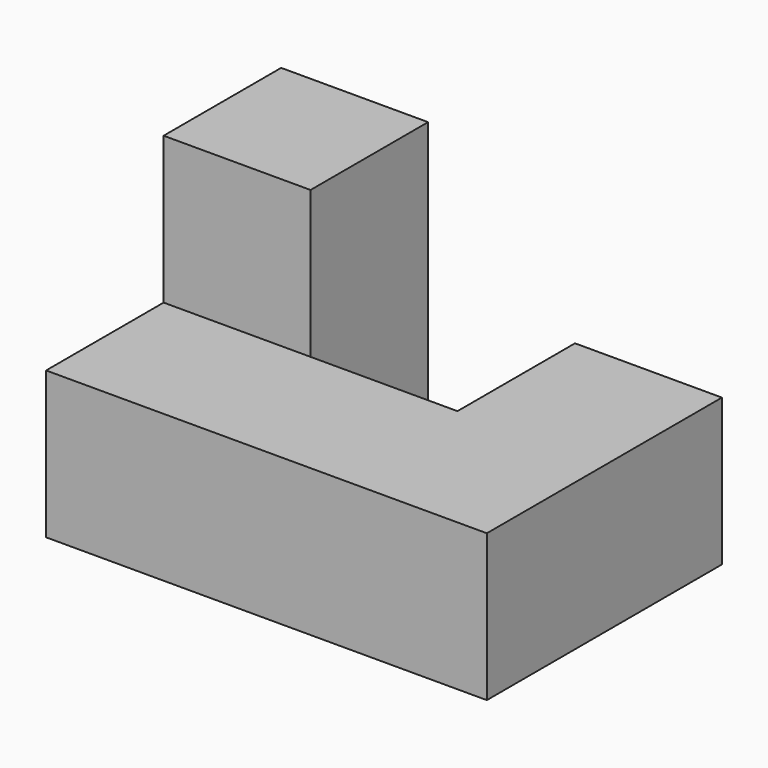
from build123d import *

# Parameters (mm, degrees)
F1_DEPTH = 10
F2_W     = 10
F2_H     = 10
F3_DEPTH = 10


with BuildPart() as f1:
    # F0 (on Top) → F1 (new body)
    with BuildSketch(Plane.XY):
        Polygon((-16.419269, 6.361689), (-16.419269, 6.013863), (-16.419269, -13.638311), (13.580731, -13.638311), (13.580731, 6.361689), (3.580731, 6.361689), (3.580731, -3.638311), (-6.419269, -3.638311), (-6.419269, 6.361689), align=None)
    extrude(amount=F1_DEPTH)

    # F2 (on face) → F3 (join)
    with BuildSketch(Plane.XY.offset(10)):
        with Locations((-11.419269, 1.361689)):
            Rectangle(F2_W, F2_H)
    extrude(amount=F3_DEPTH)


solid = f1.part
